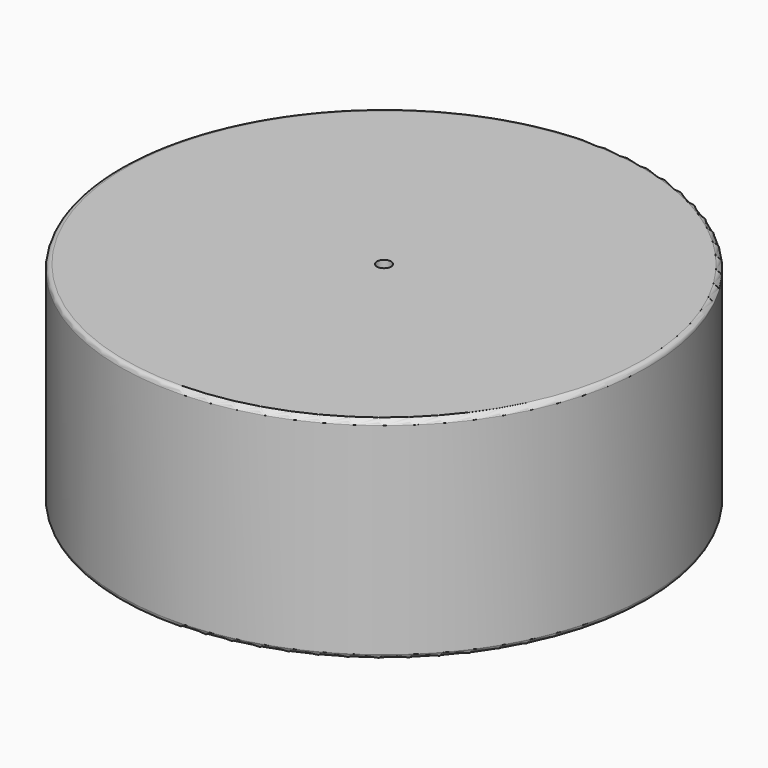
from build123d import *

# Parameters (mm, degrees)
F0_R     = 14.1351
F1_DEPTH = 11.303
F2_R     = 0.254
F3_R     = 0.381
F4_DEPTH = 25.4


with BuildPart() as f1:
    # F0 (on Top) → F1 (new body)
    with BuildSketch(Plane.XY):
        Circle(F0_R)
    extrude(amount=F1_DEPTH)

    # F2
    f2_edges = [f1.edges().sort_by_distance(p)[0] for p in [
        (-14.1351, 0, 11.303),
        (-14.1351, 0, 0),
    ]]
    fillet(f2_edges, radius=F2_R)

    # F3 (on face) → F4 (cut)
    with BuildSketch(Plane.XY.offset(11.303)):
        Circle(F3_R)
    extrude(amount=-F4_DEPTH, mode=Mode.SUBTRACT)


solid = f1.part
